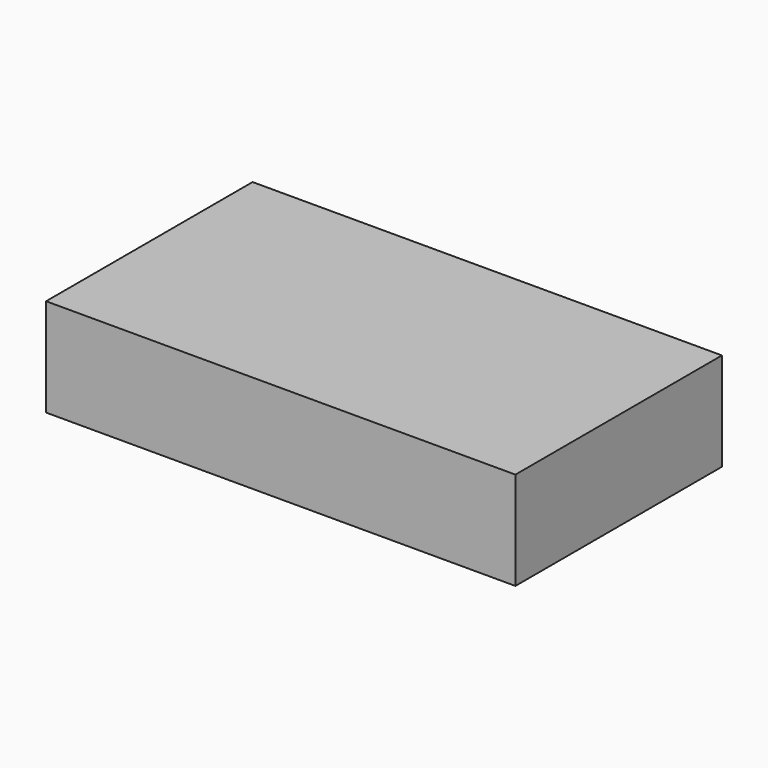
from build123d import *

# Parameters (mm, degrees)
F0_W     = 64.0112925321
F0_H     = 93.2149514556
F2_DEPTH = 25.4
F3_DEPTH = 10
F4_DEPTH = 74.6595710516
F5_DEPTH = 30.8117810637


with BuildPart() as f2:
    # F0 (on Top) → F2 (new body)
    with BuildSketch(Plane.XY):
        with Locations((47.3664468154, -46.6074757278)):
            Rectangle(F0_W, F0_H)
    extrude(amount=F2_DEPTH)

    # F3 (add): a face of the model
    f3_faces = [f2.faces().sort_by_distance(p)[0] for p in [
        (47.3664468154, -46.6074757278, 25.4),
    ]]
    extrude(f3_faces, amount=F3_DEPTH)

    # F4 (add): a face of the model
    f4_faces = [f2.faces().sort_by_distance(p)[0] for p in [
        (79.3720930815, -46.6074757278, 17.7),
    ]]
    extrude(f4_faces, amount=F4_DEPTH)

    # F5 (add): a face of the model
    f5_faces = [f2.faces().sort_by_distance(p)[0] for p in [
        (154.0316641331, -46.6074757278, 17.7),
    ]]
    extrude(f5_faces, amount=F5_DEPTH)


solid = f2.part
